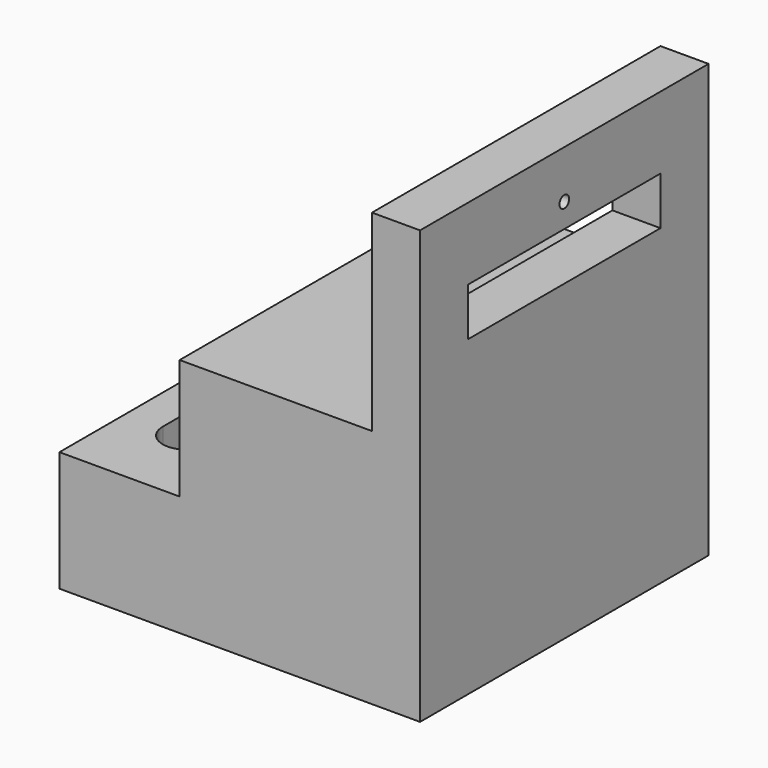
from build123d import *

# Parameters (mm, degrees)
F1_DEPTH = 150
F2_W     = 100
F2_H     = 20
F3_DEPTH = 20.001
F6_DEPTH = 25
F4_R     = 2.5
F7_DEPTH = 20.001


with BuildPart() as f1:
    # F0 (on Front) → F1 (new body)
    with BuildSketch(Plane.XZ):
        Polygon((75, -90), (75, 90), (55, 90), (55, 10), (-25, 10), (-25, -40), (-75, -40), (-75, -90), align=None)
    extrude(amount=F1_DEPTH)

    # F2 (on face) → F3 (cut, through all)
    with BuildSketch(Plane(origin=(55, 0, 0), x_dir=(0, -1, 0), z_dir=(-1, 0, 0))):
        with Locations((75, 50)):
            Rectangle(F2_W, F2_H)
    extrude(amount=-F3_DEPTH, mode=Mode.SUBTRACT)

    # F5 (on face) → F6 (cut)
    with BuildSketch(Plane.XY.offset(-40)):
        with BuildLine():
            ThreePointArc((-40, -35), (-50, -25), (-60, -35))
            Line((-60, -35), (-60, -115))
            ThreePointArc((-60, -115), (-50, -125), (-40, -115))
            Line((-40, -115), (-40, -35))
        make_face()
    extrude(amount=-F6_DEPTH, mode=Mode.SUBTRACT)

    # F4 (on face) → F7 (cut, through all)
    with BuildSketch(Plane(origin=(55, 0, 0), x_dir=(0, -1, 0), z_dir=(-1, 0, 0))):
        with Locations((75, 70)):
            Circle(F4_R)
    extrude(amount=-F7_DEPTH, mode=Mode.SUBTRACT)


solid = f1.part
